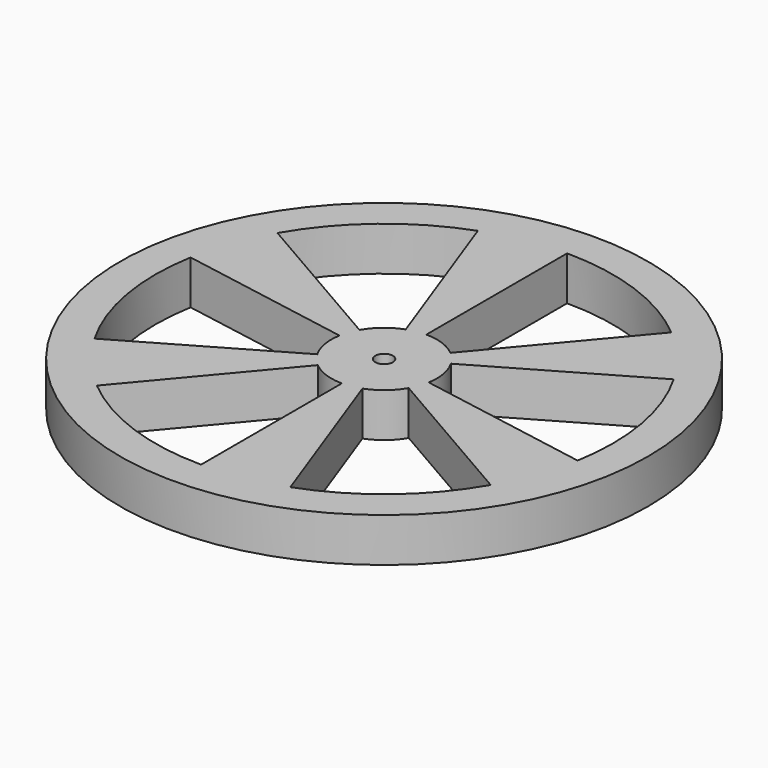
from build123d import *

# Parameters (mm, degrees)
F0_R     = 38.1
F0_R_2   = 1.27
F1_DEPTH = 6.35


with BuildPart() as f1:
    # F0 (on Top) → F1 (new body)
    with BuildSketch(Plane.XY):
        with Locations((-6.822567, 15.864339)):
            Circle(F0_R)
        with BuildLine():
            ThreePointArc((-11.720609, 10.02708), (-9.428761, 8.703881), (-6.822567, 8.244339))
            Line((-6.822567, 8.244339), (-6.822567, -17.155661))
            ThreePointArc((-6.822567, -17.155661), (-18.116073, -15.164312), (-28.047414, -9.430449))
            Line((-28.047414, -9.430449), (-11.720609, 10.02708))
        make_face(mode=Mode.SUBTRACT)
        with BuildLine():
            ThreePointArc((-14.326803, 17.187538), (-14.326803, 14.54114), (-13.421681, 12.054339))
            Line((-13.421681, 12.054339), (-35.418726, -0.645661))
            ThreePointArc((-35.418726, -0.645661), (-39.340919, 10.130476), (-39.340919, 21.598202))
            Line((-39.340919, 21.598202), (-14.326803, 17.187538))
        make_face(mode=Mode.SUBTRACT)
        with BuildLine():
            ThreePointArc((-4.216374, 8.703881), (-1.924526, 10.02708), (-0.223454, 12.054339))
            Line((-0.223454, 12.054339), (21.773591, -0.645661))
            ThreePointArc((21.773591, -0.645661), (14.402279, -9.430449), (4.470938, -15.164312))
            Line((4.470938, -15.164312), (-4.216374, 8.703881))
        make_face(mode=Mode.SUBTRACT)
        with BuildLine():
            ThreePointArc((-9.428761, 23.024796), (-11.720609, 21.701597), (-13.421681, 19.674339))
            Line((-13.421681, 19.674339), (-35.418726, 32.374339))
            ThreePointArc((-35.418726, 32.374339), (-28.047414, 41.159126), (-18.116073, 46.892989))
            Line((-18.116073, 46.892989), (-9.428761, 23.024796))
        make_face(mode=Mode.SUBTRACT)
        with Locations((-6.822567, 15.864339)):
            Circle(F0_R_2, mode=Mode.SUBTRACT)
        with BuildLine():
            ThreePointArc((0.681668, 14.54114), (0.681668, 17.187538), (-0.223454, 19.674339))
            Line((-0.223454, 19.674339), (21.773591, 32.374339))
            ThreePointArc((21.773591, 32.374339), (25.695785, 21.598202), (25.695785, 10.130476))
            Line((25.695785, 10.130476), (0.681668, 14.54114))
        make_face(mode=Mode.SUBTRACT)
        with BuildLine():
            ThreePointArc((-6.822567, 48.884339), (4.470938, 46.892989), (14.402279, 41.159126))
            Line((14.402279, 41.159126), (-1.924526, 21.701597))
            ThreePointArc((-1.924526, 21.701597), (-4.216374, 23.024796), (-6.822567, 23.484339))
            Line((-6.822567, 23.484339), (-6.822567, 48.884339))
        make_face(mode=Mode.SUBTRACT)
    extrude(amount=F1_DEPTH)


solid = f1.part
